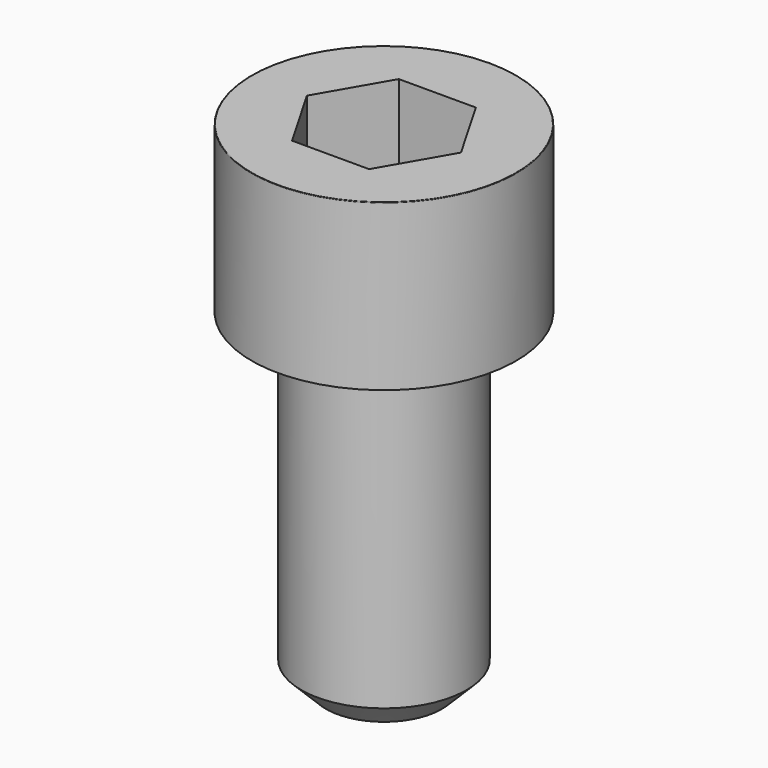
from build123d import *

# Parameters (mm, degrees)
POCKET_DEPTH = 8.07


with BuildPart() as part:
    # Sketch → Revolve (revolve)
    with BuildSketch(Plane.YZ):
        with BuildLine():
            Line((4.999, 0), (8, 0))
            Line((8, 0), (8, 9.97229))
            ThreePointArc((8, 9.97229), (7.991884, 9.991884), (7.97229, 10))
            Line((7.97229, 10), (0, 10))
            Line((0, -20), (0, 10))
            Line((3.5, -20), (0, -20))
            Line((5, -18.5), (3.5, -20))
            Line((5, -0.2), (5, -18.5))
            Line((4.999, 0), (5, -0.2))
        make_face()
    revolve(axis=Axis((0, 0, 0), (0, 0, 1)))

    # Sketch001 → Pocket (cut)
    with BuildSketch(Plane.XY.offset(10)):
        Polygon((4.659217, 0), (2.329608, 4.035), (-2.329608, 4.035), (-4.659217, 0), (-2.329608, -4.035), (2.329608, -4.035), align=None)
    extrude(amount=-POCKET_DEPTH, mode=Mode.SUBTRACT)


solid = part.part
